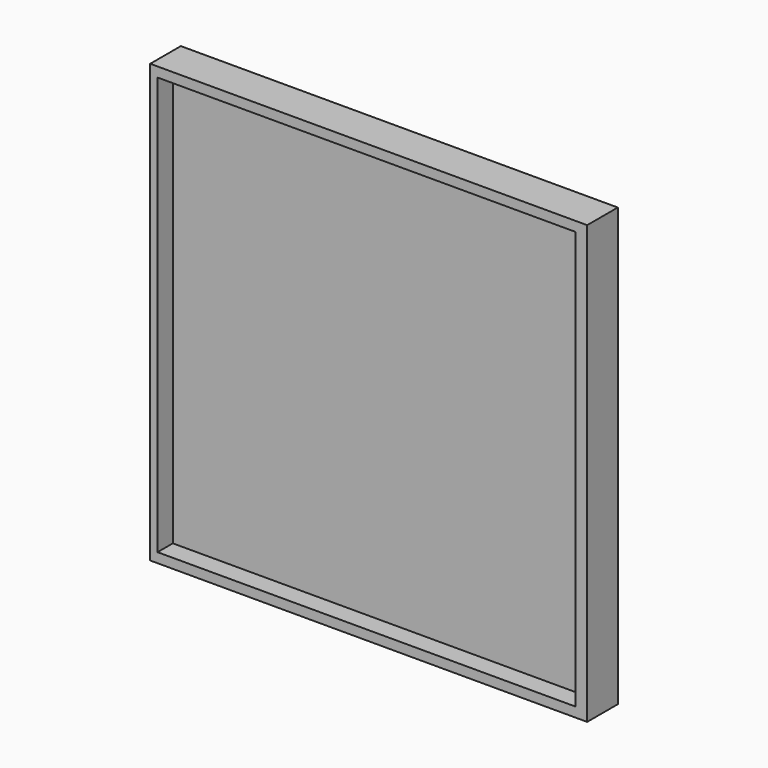
from build123d import *

# Parameters (mm, degrees)
F0_W     = 114.200324
F0_H     = 114.3
F1_DEPTH = 10
F2_W     = 109.22
F2_H     = 109.22
F3_DEPTH = 5


with BuildPart() as f1:
    # F0 (on Front) → F1 (new body)
    with BuildSketch(Plane.XZ):
        with Locations((11.745654, 7.143748)):
            Rectangle(F0_W, F0_H)
    extrude(amount=F1_DEPTH)

    # F2 (on face) → F3 (cut)
    with BuildSketch(Plane.XZ.offset(10)):
        with Locations((11.164188, 7.143748)):
            Rectangle(F2_W, F2_H)
    extrude(amount=-F3_DEPTH, mode=Mode.SUBTRACT)


with BuildPart() as f5:
    # F4 (on Top) → F5 (revolve)
    with BuildSketch(Plane.XY):
        with BuildLine():
            Line((10.931599, 14.420407), (10.931599, 0))
            ThreePointArc((10.931599, 0), (17.945198, 7.210203), (10.931599, 14.420407))
        make_face()
    revolve(axis=Axis((10.931599, 7.210203, 0), (0, 1, 0)))


solid = Compound([f1.part, f5.part])
